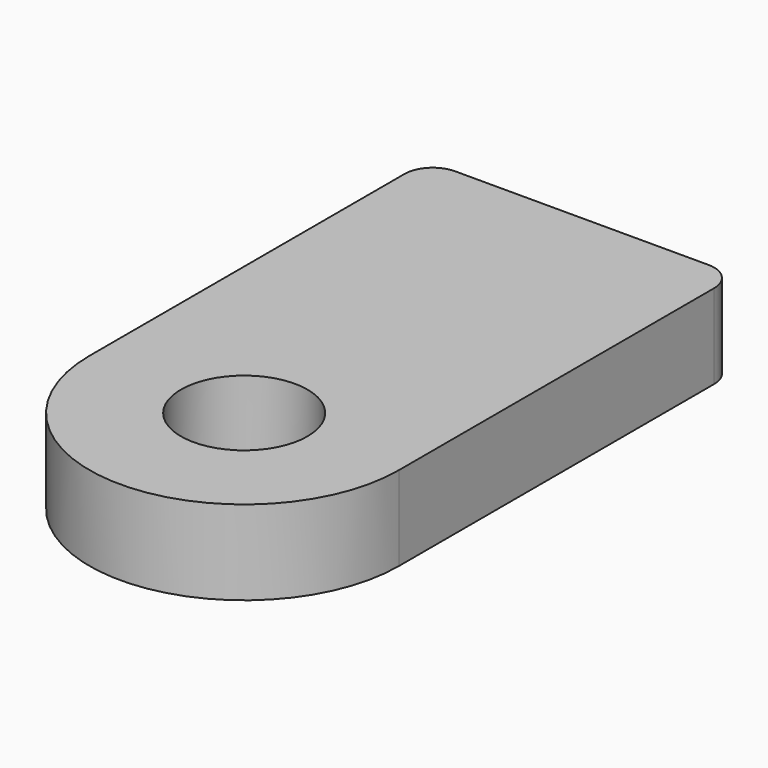
from build123d import *

# Parameters (mm, degrees)
F0_R     = 2.25
F1_DEPTH = 3


with BuildPart() as f1:
    # F0 (on Top) → F1 (new body)
    with BuildSketch(Plane.XY):
        with BuildLine():
            Line((-5.5, 14), (-5.5, 0))
            ThreePointArc((-5.5, 0), (0, -5.5), (5.5, 0))
            Line((5.5, 0), (5.5, 14))
            ThreePointArc((5.5, 14), (5.207107, 14.707107), (4.5, 15))
            Line((4.5, 15), (-4.5, 15))
            ThreePointArc((-4.5, 15), (-5.207107, 14.707107), (-5.5, 14))
        make_face()
        Circle(F0_R, mode=Mode.SUBTRACT)
    extrude(amount=F1_DEPTH)


solid = f1.part
